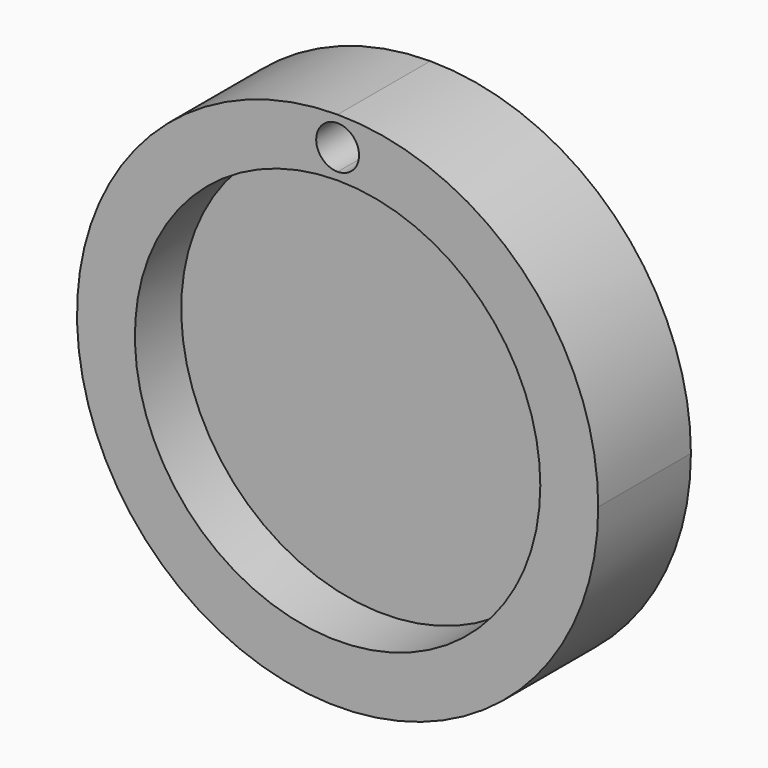
from build123d import *

# Parameters (mm, degrees)
F1_DEPTH = 5
F2_DEPTH = 10


with BuildPart() as f1:
    # F0 (on Front) → F1 (new body)
    with BuildSketch(Plane.XZ):
        with BuildLine():
            ThreePointArc((17.5, 0), (12.374369, 12.374369), (0, 17.5))
            ThreePointArc((0, 17.5), (-12.374369, -12.374369), (17.5, 0))
        make_face()
    extrude(amount=F1_DEPTH)

    # F0 (on Front) → F2 (join)
    with BuildSketch(Plane.XZ):
        with BuildLine():
            ThreePointArc((0, 22.5), (-15.909903, -15.909903), (22.5, 0))
            ThreePointArc((22.5, 0), (15.909903, 15.909903), (0, 22.5))
        make_face()
        with BuildLine():
            ThreePointArc((17.5, 0), (-12.374369, -12.374369), (0, 17.5))
            ThreePointArc((0, 17.5), (12.374369, 12.374369), (17.5, 0))
        make_face(mode=Mode.SUBTRACT)
        with BuildLine():
            ThreePointArc((0, 18.150135), (-1.849865, 20), (0, 21.849865))
            ThreePointArc((0, 21.849865), (1.308052, 21.308052), (1.849865, 20))
            ThreePointArc((1.849865, 20), (1.308052, 18.691948), (0, 18.150135))
        make_face(mode=Mode.SUBTRACT)
    extrude(amount=F2_DEPTH)


solid = f1.part
